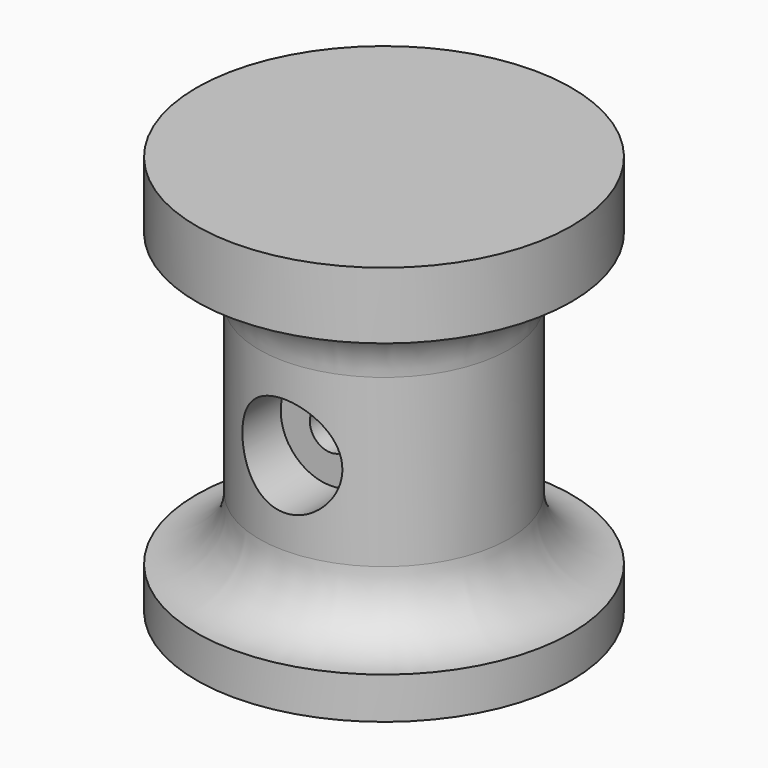
from build123d import *

# Parameters (mm, degrees)
EXTRUDE001_START = 4
SKETCH002_R      = 3
EXTRUDE001_DEPTH = 3.5
SKETCH001_R      = 1.25
EXTRUDE_DEPTH    = 10


with BuildPart() as extrude001:
    # Sketch002 → Extrude001 (new body)
    with BuildSketch(Plane.XZ.offset(EXTRUDE001_START)):
        with Locations((0, 18.25)):
            Circle(SKETCH002_R)
    extrude(amount=EXTRUDE001_DEPTH)


with BuildPart() as fusion:
    # Sketch001 → Extrude (new body)
    with BuildSketch(Plane.XZ):
        with Locations((0, 18.25)):
            Circle(SKETCH001_R)
    extrude(amount=EXTRUDE_DEPTH)

    # Fusion: union Extrude001
    add(extrude001.part)


with BuildPart() as nya:
    # Sketch → Revolve (revolve)
    with BuildSketch(Plane.XZ):
        with BuildLine():
            Line((2.5, 7), (2.5, 26))
            ThreePointArc((2.5, 26), (2.353553, 26.353553), (2, 26.5))
            Line((0, 26.5), (2, 26.5))
            Line((0, 31), (0, 26.5))
            Line((0, 31), (11.25, 31))
            Line((11.25, 31), (11.25, 27))
            ThreePointArc((11.25, 27), (8.59835, 25.90165), (7.5, 23.25))
            Line((7.5, 23.25), (7.5, 13.25))
            ThreePointArc((7.5, 13.25), (8.59835, 10.59835), (11.25, 9.5))
            Line((11.25, 7), (11.25, 9.5))
            Line((2.5, 7), (11.25, 7))
        make_face()
    revolve(axis=Axis((0, 0, 0), (0, 0, 1)))

    # Cut: cut Fusion
    add(fusion.part, mode=Mode.SUBTRACT)


solid = nya.part
